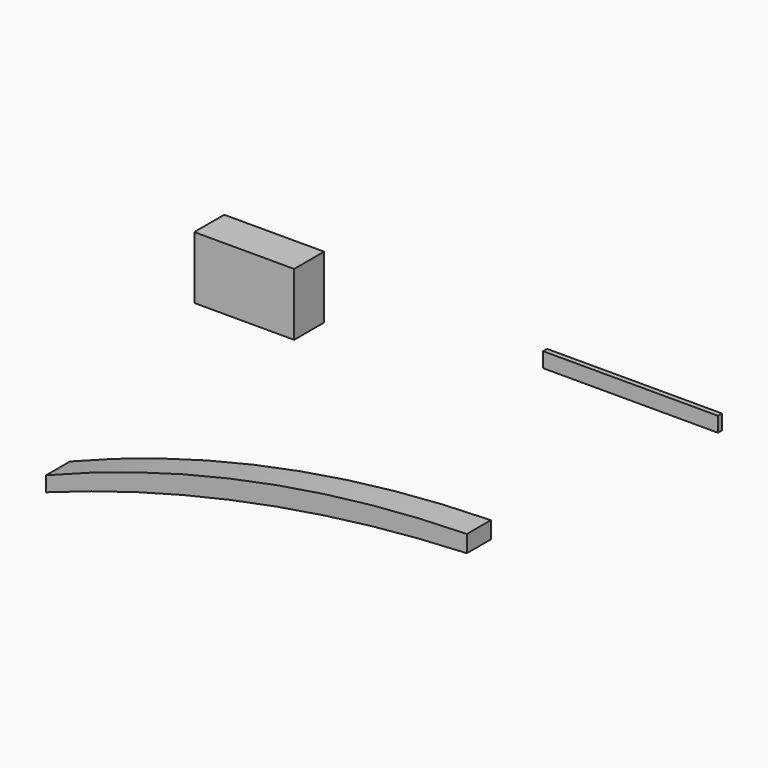
from build123d import *

# Parameters (mm, degrees)
F0_W     = 25.4
F0_H     = 15.875
F1_DEPTH = 9.525
F2_W     = 44.45
F2_H     = 3.81
F3_DEPTH = 1.27
F5_DEPTH = 7.62


with BuildPart() as f1:
    # F0 (on Front) → F1 (new body)
    with BuildSketch(Plane.XZ):
        with Locations((-42.936093, 24.893261)):
            Rectangle(F0_W, F0_H)
    extrude(amount=F1_DEPTH)


with BuildPart() as f3:
    # F2 (on Front) → F3 (new body)
    with BuildSketch(Plane.XZ):
        with Locations((48.718376, 27.603576)):
            Rectangle(F2_W, F2_H)
    extrude(amount=F3_DEPTH)


with BuildPart() as f5:
    # F4 (on Front) → F5 (new body)
    with BuildSketch(Plane.XZ):
        with BuildLine():
            Line((-94.846293, -35.155985), (-94.846293, -38.965985))
            ThreePointArc((-94.846293, -38.965985), (-42.157335, -24.227862), (12.176002, -17.807032))
            Line((12.176002, -17.807032), (12.176002, -13.496675))
            ThreePointArc((12.176002, -13.496675), (-42.319613, -19.461912), (-94.846293, -35.155985))
        make_face()
    extrude(amount=F5_DEPTH)


solid = Compound([f1.part, f3.part, f5.part])
